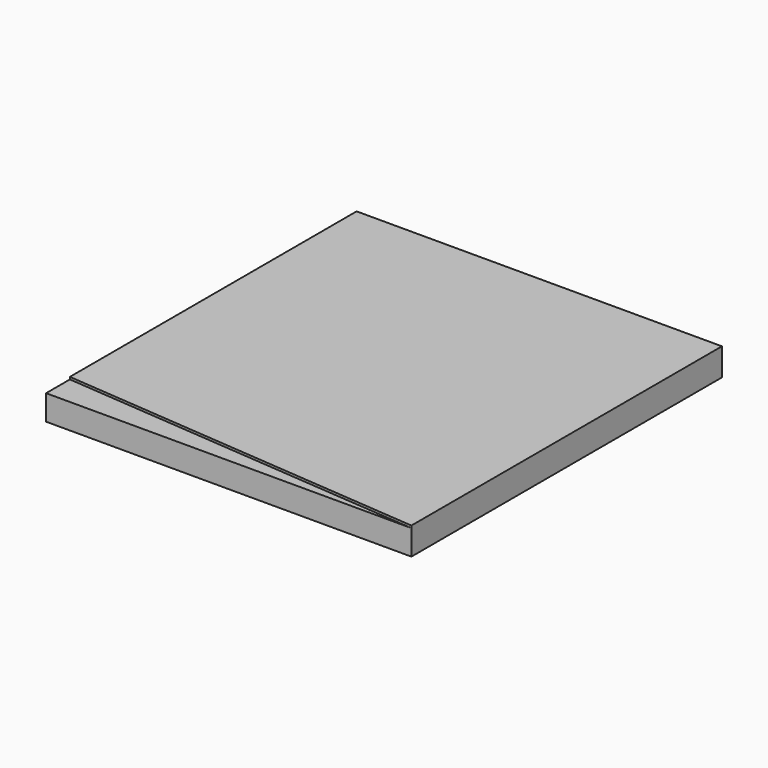
from build123d import *

# Parameters (mm, degrees)
PAD_DEPTH    = 12
POCKET_DEPTH = 1


with BuildPart() as part:
    # Sketch → Pad (new body)
    with BuildSketch(Plane.XY):
        Polygon((0, 0), (0, 85), (160, 85), (160, -85), (0, -85), align=None)
    extrude(amount=PAD_DEPTH)

    # Sketch002 (on Face7 of Pad) → Pocket (cut)
    with BuildSketch(Plane.XY.offset(12)):
        Polygon((0, -85), (0, -71.973152), (160, -85), align=None)
    extrude(amount=-POCKET_DEPTH, mode=Mode.SUBTRACT)


solid = part.part
